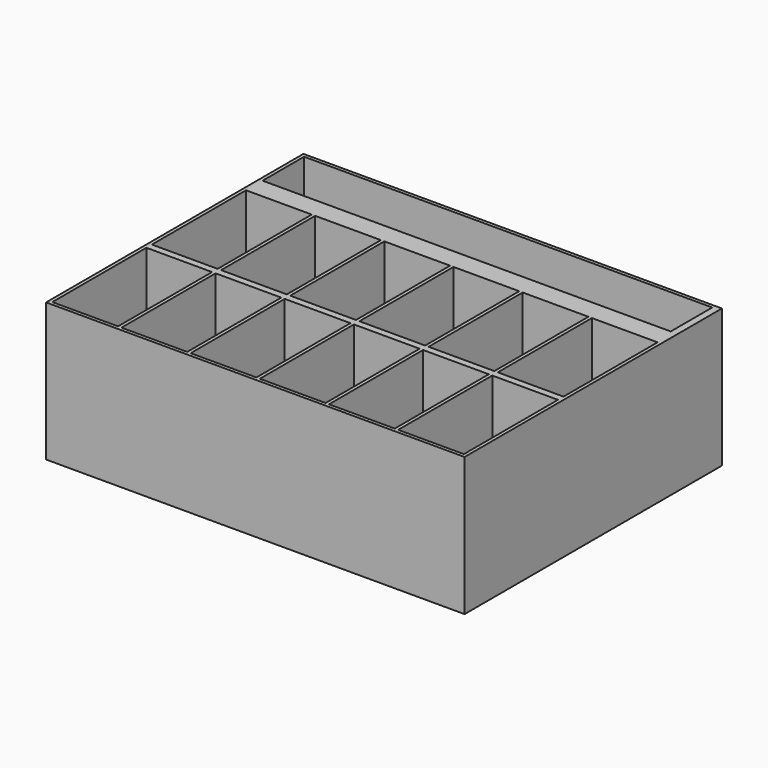
from build123d import *

# Parameters (mm, degrees)
F0_W     = 762
F0_H     = 584.2
F1_DEPTH = 254
F3_DEPTH = 247.65
F5_DEPTH = 254
F6_DEPTH = 254
F7_DEPTH = 247.65


with BuildPart() as f1:
    # F0 (on Top) → F1 (new body)
    with BuildSketch(Plane.XY):
        with Locations((3.6051012576, 23.4938759938)):
            Rectangle(F0_W, F0_H)
    extrude(amount=F1_DEPTH)

    # F2 (on face) → F3 (cut)
    with BuildSketch(Plane.XY.offset(254)):
        Polygon((-371.0448987424, 309.2438759938), (-371.0448987424, 295.6585884094), (-371.0448987424, 213.9938759938), (378.2551012576, 213.9938759938), (378.2551012576, 277.7049839497), (378.2551012576, 309.2438759938), align=None)
    extrude(amount=-F3_DEPTH, mode=Mode.SUBTRACT)

    # F4 (on face) → F5 (join)
    with BuildSketch(Plane.XY.offset(254)):
        Polygon((384.6051012576, 315.5938759938), (384.6051012576, 175.8938759938), (384.6051012576, -40.0061240062), (384.6051012576, -52.7061240062), (384.6051012576, -268.6061240062), (390.9551012576, -268.6061240062), (390.9551012576, 315.5938759938), align=None)
    extrude(amount=-F5_DEPTH)

    # F4 (on face) → F6 (join)
    with BuildSketch(Plane.XY.offset(254)):
        Polygon((390.9551012576, -268.6061240062), (384.6051012576, -268.6061240062), (263.9551012576, -268.6061240062), (257.6051012576, -268.6061240062), (136.9551012576, -268.6061240062), (130.6051012576, -268.6061240062), (9.9551012576, -268.6061240062), (3.6051012576, -268.6061240062), (-117.0448987424, -268.6061240062), (-123.3948987424, -268.6061240062), (-244.0448987424, -268.6061240062), (-250.3948987424, -268.6061240062), (-371.0448987424, -268.6061240062), (-377.3948987424, -268.6061240062), (-377.3948987424, -274.9561240062), (390.9551012576, -274.9561240062), align=None)
    extrude(amount=-F6_DEPTH)

    # F4 (on face) → F7 (cut)
    with BuildSketch(Plane.XY.offset(254)):
        Polygon((-244.0448987424, -231.7013091296), (-244.0448987424, -268.6061240062), (-123.3948987424, -268.6061240062), (-123.3948987424, -229.8385000676), (-123.3948987424, -52.7061240062), (-244.0448987424, -52.7061240062), align=None)
        Polygon((-117.0448987424, -229.8385000676), (-117.0448987424, -268.6061240062), (3.6051012576, -268.6061240062), (3.6051012576, -232.6196825951), (3.6051012576, -52.7061240062), (-117.0448987424, -52.7061240062), align=None)
        Polygon((9.9551012576, -268.6061240062), (130.6051012576, -268.6061240062), (130.6051012576, -242.5831056088), (130.6051012576, -52.7061240062), (9.9551012576, -52.7061240062), (9.9551012576, -232.6196825951), align=None)
        Polygon((136.9551012576, -268.6061240062), (257.6051012576, -268.6061240062), (257.6051012576, -243.7552756518), (257.6051012576, -52.7061240062), (136.9551012576, -52.7061240062), (136.9551012576, -242.5831056088), align=None)
        Polygon((384.6051012576, -268.6061240062), (384.6051012576, -52.7061240062), (263.9551012576, -52.7061240062), (263.9551012576, -243.7552756518), (263.9551012576, -268.6061240062), align=None)
        Polygon((257.6051012576, 151.0430276394), (257.6051012576, 175.8938759938), (136.9551012576, 175.8938759938), (136.9551012576, 149.8708575964), (136.9551012576, -40.0061240062), (257.6051012576, -40.0061240062), align=None)
        Polygon((130.6051012576, 149.8708575964), (130.6051012576, 175.8938759938), (9.9551012576, 175.8938759938), (9.9551012576, 139.9074345827), (9.9551012576, -40.0061240062), (130.6051012576, -40.0061240062), align=None)
        Polygon((384.6051012576, 175.8938759938), (378.2551012576, 175.8938759938), (263.9551012576, 175.8938759938), (263.9551012576, 151.0430276394), (263.9551012576, -40.0061240062), (384.6051012576, -40.0061240062), align=None)
        Polygon((3.6051012576, 175.8938759938), (-117.0448987424, 175.8938759938), (-117.0448987424, 137.1262520552), (-117.0448987424, -40.0061240062), (3.6051012576, -40.0061240062), (3.6051012576, 139.9074345827), align=None)
        Polygon((-123.3948987424, 175.8938759938), (-244.0448987424, 175.8938759938), (-244.0448987424, 138.9890611172), (-244.0448987424, -40.0061240062), (-123.3948987424, -40.0061240062), (-123.3948987424, 137.1262520552), align=None)
        Polygon((-250.3948987424, 175.8938759938), (-371.0448987424, 175.8938759938), (-371.0448987424, -40.0061240062), (-342.720925808, -40.0061240062), (-250.3948987424, -40.0061240062), (-250.3948987424, 138.9890611172), align=None)
        Polygon((-371.0448987424, -52.7061240062), (-371.0448987424, -268.6061240062), (-250.3948987424, -268.6061240062), (-250.3948987424, -231.7013091296), (-250.3948987424, -52.7061240062), align=None)
    extrude(amount=-F7_DEPTH, mode=Mode.SUBTRACT)


solid = f1.part
